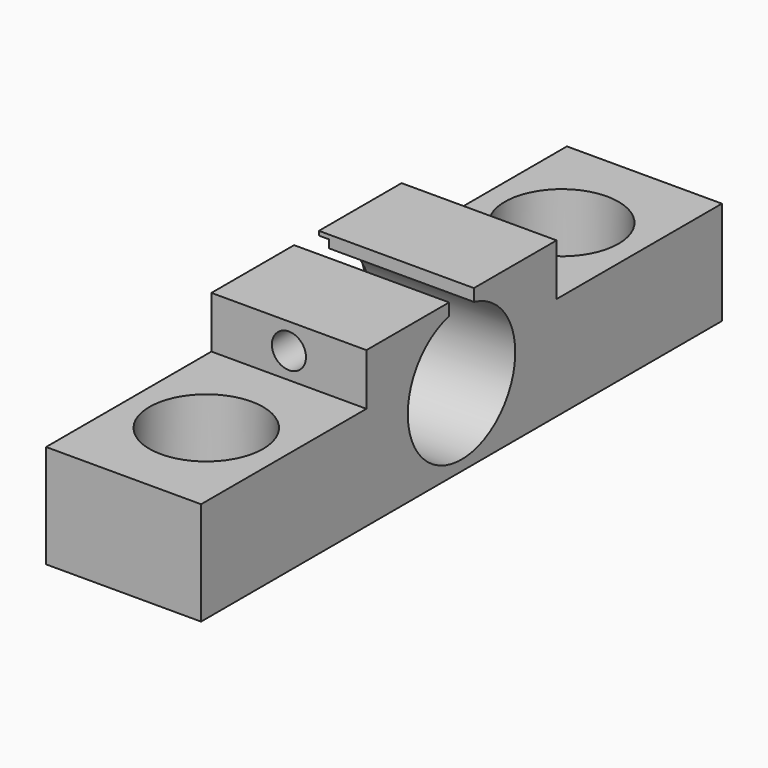
from build123d import *

# Parameters (mm, degrees)
CYLINDER008_R             = 1.65
CYLINDER008_DEPTH         = 10
BOX_W                     = 15
BOX_H                     = 3
BOX_DEPTH                 = 10
CYLINDER014_R             = 7.25
CYLINDER014_DEPTH         = 1
CYLINDER013_R             = 6.5
CYLINDER013_DEPTH         = 32
FUSION010_PLACEMENT_ANGLE = 90
CYLINDER010_R             = 3.25
CYLINDER010_DEPTH         = 10
CYLINDER009_R             = 5.5
CYLINDER009_DEPTH         = 6
CYLINDER012_R             = 3.25
CYLINDER012_DEPTH         = 10
CYLINDER011_R             = 5.5
CYLINDER011_DEPTH         = 6
BOX006_W                  = 15
BOX006_H                  = 20
BOX006_DEPTH              = 20
BOX005_W                  = 15
BOX005_H                  = 20
BOX005_DEPTH              = 20
BOX004_W                  = 15
BOX004_H                  = 63
BOX004_DEPTH              = 15


with BuildPart() as m4wormscrew:
    # Cylinder008 → Cylinder008 (new body)
    with BuildSketch(Plane(origin=(0, -3, 12.5), x_dir=(1, 0, 0), z_dir=(0, -1, 0))):
        Circle(CYLINDER008_R)
    extrude(amount=CYLINDER008_DEPTH)


with BuildPart() as cube:
    # Box → Box (new body)
    with BuildSketch(Plane(origin=(-7.5, -1.5, 9), x_dir=(1, 0, 0), z_dir=(0, 0, 1))):
        with Locations((7.5, 1.5)):
            Rectangle(BOX_W, BOX_H)
    extrude(amount=BOX_DEPTH)


with BuildPart() as cylinder014:
    # Cylinder014 → Cylinder014 (new body)
    with BuildSketch(Plane.XY):
        Circle(CYLINDER014_R)
    extrude(amount=CYLINDER014_DEPTH)


with BuildPart() as lasermoduletemplate002:
    # Cylinder013 → Cylinder013 (new body)
    with BuildSketch(Plane.XY):
        Circle(CYLINDER013_R)
    extrude(amount=CYLINDER013_DEPTH)

    # Fusion010: union Cylinder014
    add(cylinder014.part)


with BuildPart() as lasermoduletemplate002_1:
    # Fusion010 placement: moved
    add(lasermoduletemplate002.part.moved(Location((-7.5, 0, 7.5))).rotate(Axis((-7.5, 0, 7.5), (0, 1, 0)), FUSION010_PLACEMENT_ANGLE))


with BuildPart() as cylinder010:
    # Cylinder010 → Cylinder010 (new body)
    with BuildSketch(Plane.XY):
        Circle(CYLINDER010_R)
    extrude(amount=CYLINDER010_DEPTH)


with BuildPart() as screwthrough003:
    # Cylinder009 → Cylinder009 (new body)
    with BuildSketch(Plane.XY.offset(4)):
        Circle(CYLINDER009_R)
    extrude(amount=CYLINDER009_DEPTH)

    # Fusion007: union Cylinder010
    add(cylinder010.part)


with BuildPart() as screwthrough003_1:
    # Fusion007 placement: moved
    add(screwthrough003.part.moved(Location((0, -21.5, 0))))


with BuildPart() as cylinder012:
    # Cylinder012 → Cylinder012 (new body)
    with BuildSketch(Plane.XY):
        Circle(CYLINDER012_R)
    extrude(amount=CYLINDER012_DEPTH)


with BuildPart() as fusion009:
    # Cylinder011 → Cylinder011 (new body)
    with BuildSketch(Plane.XY.offset(4)):
        Circle(CYLINDER011_R)
    extrude(amount=CYLINDER011_DEPTH)

    # Fusion008: union Cylinder012
    add(cylinder012.part)


with BuildPart() as fusion009_1:
    # Fusion008 placement: moved
    add(fusion009.part.moved(Location((0, 21.5, 0))))

    # Fusion009: union ScrewThrough003
    add(screwthrough003_1.part)


with BuildPart() as cube006:
    # Box006 → Box006 (new body)
    with BuildSketch(Plane(origin=(-15, -31.5, 10), x_dir=(1, 0, 0), z_dir=(0, 0, 1))):
        with Locations((7.5, 10)):
            Rectangle(BOX006_W, BOX006_H)
    extrude(amount=BOX006_DEPTH)


with BuildPart() as fusion006:
    # Box005 → Box005 (new body)
    with BuildSketch(Plane(origin=(-15, 11.5, 10), x_dir=(1, 0, 0), z_dir=(0, 0, 1))):
        with Locations((7.5, 10)):
            Rectangle(BOX005_W, BOX005_H)
    extrude(amount=BOX005_DEPTH)

    # Fusion006: union Cube006
    add(cube006.part)


with BuildPart() as cut008:
    # Box004 → Box004 (new body)
    with BuildSketch(Plane(origin=(-15, -31.5, 0), x_dir=(1, 0, 0), z_dir=(0, 0, 1))):
        with Locations((7.5, 31.5)):
            Rectangle(BOX004_W, BOX004_H)
    extrude(amount=BOX004_DEPTH)

    # Cut005: cut Fusion006
    add(fusion006.part, mode=Mode.SUBTRACT)


with BuildPart() as cut008_1:
    # Cut005 placement: moved
    add(cut008.part.moved(Location((7.5, 0, 0))))

    # Cut006: cut Fusion009
    add(fusion009_1.part, mode=Mode.SUBTRACT)

    # Cut007: cut LaserModuleTemplate002
    add(lasermoduletemplate002_1.part, mode=Mode.SUBTRACT)

    # Cut: cut Cube
    add(cube.part, mode=Mode.SUBTRACT)

    # Cut008: cut M4WormScrew
    add(m4wormscrew.part, mode=Mode.SUBTRACT)


solid = cut008_1.part
